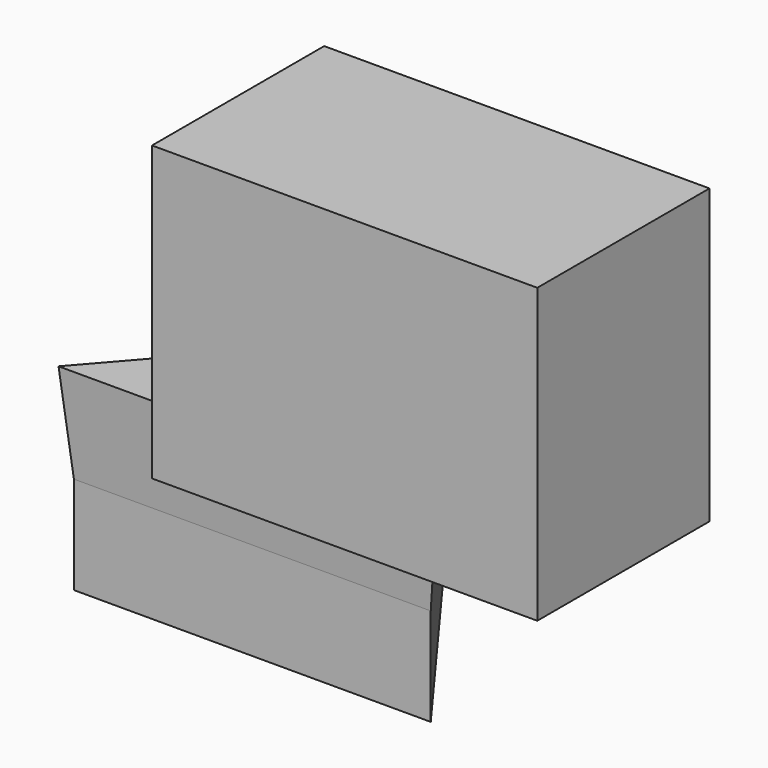
from build123d import *

# Parameters (mm, degrees)
F1_DEPTH      = 25.4
F1_TAPER      = -3
F1_DEPTH_BACK = 25.4
F2_W          = 100.148499012
F2_H          = 55.9419505298
F3_DEPTH      = 76.2


with BuildPart() as f1:
    # F0 (on Top) → F1 (new body, two sides)
    with BuildSketch(Plane.XY) as f1_sk:
        Polygon((-92.7592143416, 0), (0, 0), (-42.4239225686, 57.6683394611), align=None)
    extrude(amount=F1_DEPTH, taper=F1_TAPER)
    extrude(f1_sk.sketch, amount=-F1_DEPTH_BACK)

    # F2 (on face) → F3 (join)
    with BuildSketch(Plane.XY.offset(25.4)):
        Rectangle(F2_W, F2_H)
    extrude(amount=F3_DEPTH)


solid = f1.part
